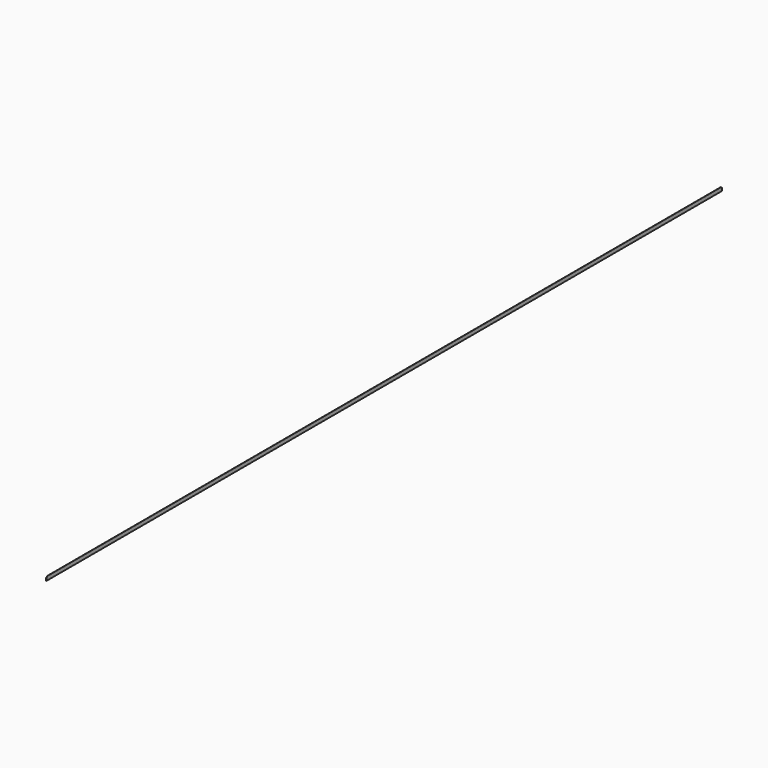
from build123d import *

# Parameters (mm, degrees)
F0_W     = 1.5875
F0_H     = 30.48
F1_DEPTH = 6718.3
F2_W     = 1.5875
F2_H     = 7.14375
F3_DEPTH = 6.35


with BuildPart() as f1:
    # F0 (on Front) → F1 (new body)
    with BuildSketch(Plane.XZ):
        with Locations((0.79375, -15.24)):
            Rectangle(F0_W, F0_H)
    extrude(amount=F1_DEPTH)

    # F2 (on face) → F3 (cut)
    with BuildSketch(Plane.XY):
        with Locations((0.79375, -6714.728125)):
            Rectangle(F2_W, F2_H)
        with Locations((0.79375, -3.571875)):
            Rectangle(F2_W, F2_H)
    extrude(amount=-F3_DEPTH, mode=Mode.SUBTRACT)


solid = f1.part
